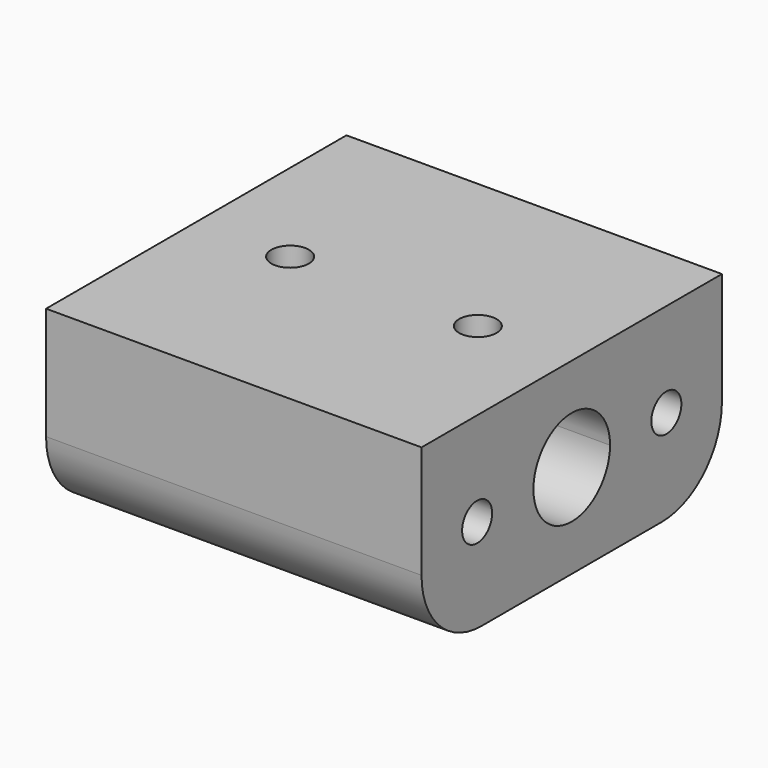
from build123d import *

# Parameters (mm, degrees)
F0_R     = 1.27
F1_DEPTH = 12.7
F2_DEPTH = 6.35
F3_DEPTH = 6.35
F4_R     = 1.27
F5_DEPTH = 50.8
F6_R     = 5.08


with BuildPart() as f1:
    # F0 (on Top) → F1 (new body)
    with BuildSketch(Plane.XY):
        Polygon((-12.7, 0), (0, 0), (0, 12.7), (-25.4, 12.7), (-25.4, 0), align=None)
        with Locations((-19.05, 6.35)):
            Circle(F0_R, mode=Mode.SUBTRACT)
        with BuildLine():
            ThreePointArc((-5.08, 6.35), (-6.35, 5.08), (-7.62, 6.35))
            ThreePointArc((-7.62, 6.35), (-6.35, 7.62), (-5.08, 6.35))
        make_face(mode=Mode.SUBTRACT)
    extrude(amount=F1_DEPTH)

    # F2 (add): a face of the model
    f2_faces = [f1.faces().sort_by_distance(p)[0] for p in [
        (-12.7, 0, 6.35),
    ]]
    extrude(f2_faces, amount=F2_DEPTH)

    # F3 (add): a face of the model
    f3_faces = [f1.faces().sort_by_distance(p)[0] for p in [
        (-12.7, 12.7, 6.35),
    ]]
    extrude(f3_faces, amount=F3_DEPTH)

    # F4 (on face) → F5 (cut)
    with BuildSketch(Plane.YZ):
        with Locations((-1.651, 6.35)):
            Circle(F4_R)
        with BuildLine():
            Line((6.35, 6.35), (6.35, 9.5885))
            ThreePointArc((6.35, 9.5885), (4.0600346891, 8.6399653109), (3.1115, 6.35))
            Line((3.1115, 6.35), (6.35, 6.35))
        make_face()
        with BuildLine():
            ThreePointArc((9.5885, 6.35), (8.6399653109, 8.6399653109), (6.35, 9.5885))
            Line((6.35, 9.5885), (6.35, 6.35))
            Line((6.35, 6.35), (9.5885, 6.35))
        make_face()
        with BuildLine():
            Line((9.5885, 6.35), (6.35, 6.35))
            Line((6.35, 6.35), (3.1115, 6.35))
            ThreePointArc((3.1115, 6.35), (6.35, 3.1115), (9.5885, 6.35))
        make_face()
        with BuildLine():
            ThreePointArc((15.621, 6.35), (14.351, 7.62), (13.081, 6.35))
            ThreePointArc((13.081, 6.35), (14.351, 5.08), (15.621, 6.35))
        make_face()
    extrude(amount=-F5_DEPTH, mode=Mode.SUBTRACT)

    # F6
    f6_edges = [f1.edges().sort_by_distance(p)[0] for p in [
        (-12.7, -6.35, 0),
        (-12.7, 19.05, 0),
    ]]
    fillet(f6_edges, radius=F6_R)


solid = f1.part
